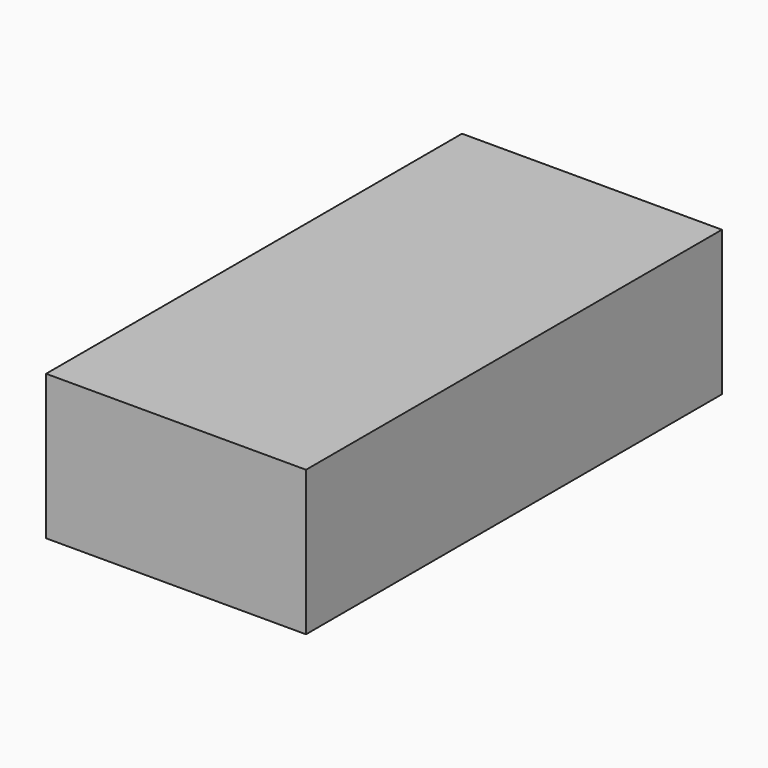
from build123d import *

# Parameters (mm, degrees)
F1_DEPTH = 100
F0_R     = 15.3620181697
F0_W     = 50
F0_H     = 27.8688543963


with BuildPart() as f1:
    # F0 (on Front) → F1 (new body)
    with BuildSketch(Plane.XZ):
        Polygon((-50.8095297794, 0), (-29.4980568604, 0), (0, 29.5502637848), (0, 52.0912465749), align=None)
    extrude(amount=F1_DEPTH)


with BuildPart() as f1b:
    # F0 (on Front) → F1, piece 2 (new body)
    with BuildSketch(Plane.XZ):
        with Locations((29.9281747926, 34.0584610181)):
            Circle(F0_R)
    extrude(amount=F1_DEPTH)


with BuildPart() as f1c:
    # F0 (on Front) → F1, piece 3 (new body)
    with BuildSketch(Plane.XZ):
        with Locations((-34.8259250902, -31.9251453594)):
            Rectangle(F0_W, F0_H)
    extrude(amount=F1_DEPTH)


solid = f1c.part
